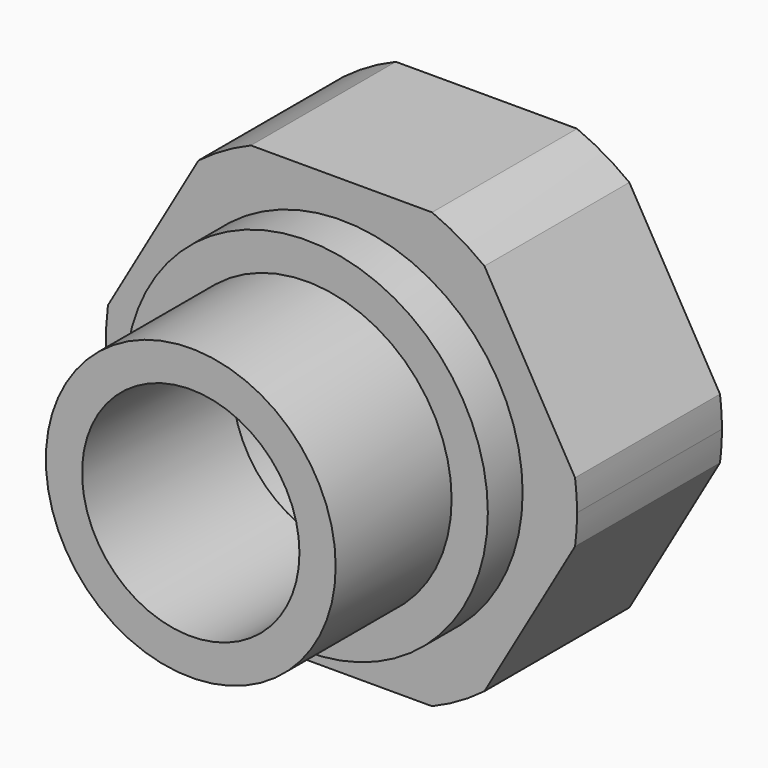
from build123d import *

# Parameters (mm, degrees)
F0_R     = 10
F1_DEPTH = 12.5
F2_R     = 12.5
F2_R_2   = 7.5
F3_DEPTH = 3
F4_R     = 10
F4_R_2   = 7.5
F5_DEPTH = 10


with BuildPart() as f1:
    # F0 (on Front) → F1 (new body)
    with BuildSketch(Plane.XZ):
        with BuildLine():
            Line((6.25, 15), (-6.25, 15))
            ThreePointArc((-6.25, 15), (-8.125, 14.072913), (-9.865381, 12.912659))
            Line((-9.865381, 12.912659), (-16.115381, 2.087341))
            ThreePointArc((-16.115381, 2.087341), (-16.25, 0), (-16.115381, -2.087341))
            Line((-16.115381, -2.087341), (-9.865381, -12.912659))
            ThreePointArc((-9.865381, -12.912659), (-8.125, -14.072913), (-6.25, -15))
            Line((-6.25, -15), (6.25, -15))
            ThreePointArc((6.25, -15), (8.125, -14.072913), (9.865381, -12.912659))
            Line((9.865381, -12.912659), (16.115381, -2.087341))
            ThreePointArc((16.115381, -2.087341), (16.21631, -1.045839), (16.25, 0))
            ThreePointArc((16.25, 0), (16.21631, 1.045839), (16.115381, 2.087341))
            Line((16.115381, 2.087341), (9.865381, 12.912659))
            ThreePointArc((9.865381, 12.912659), (8.125, 14.072913), (6.25, 15))
        make_face()
        Circle(F0_R, mode=Mode.SUBTRACT)
    extrude(amount=F1_DEPTH)

    # F2 (on face) → F3 (join)
    with BuildSketch(Plane.XZ.offset(12.5)):
        Circle(F2_R)
        Circle(F2_R_2, mode=Mode.SUBTRACT)
    extrude(amount=F3_DEPTH)

    # F4 (on face) → F5 (join)
    with BuildSketch(Plane.XZ.offset(15.5)):
        Circle(F4_R)
        Circle(F4_R_2, mode=Mode.SUBTRACT)
    extrude(amount=F5_DEPTH)


solid = f1.part
